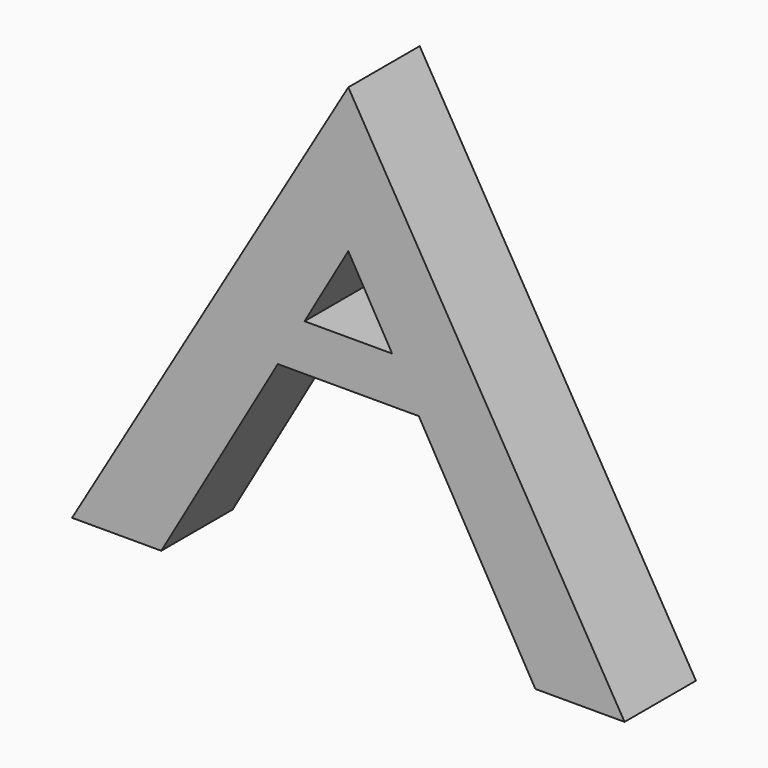
from build123d import *

# Parameters (mm, degrees)
F2_DEPTH = 25.4
F3_DEPTH = 25.4


with BuildPart() as f2:
    # F0 (on Front) → F2 (new body)
    with BuildSketch(Plane.XZ):
        Polygon((78.653563, -57.598978), (0, 75.892672), (-78.653563, -57.598978), (-53.253563, -57.598978), (0, 34.838463), (53.253563, -57.598978), align=None)
    extrude(amount=F2_DEPTH)

    # F1 (on Front) → F3 (join)
    with BuildSketch(Plane.XZ):
        Polygon((21.667626, 13.198227), (-29.132374, 13.198227), (-36.752374, 0), (29.287626, 0), align=None)
    extrude(amount=F3_DEPTH)


solid = f2.part
